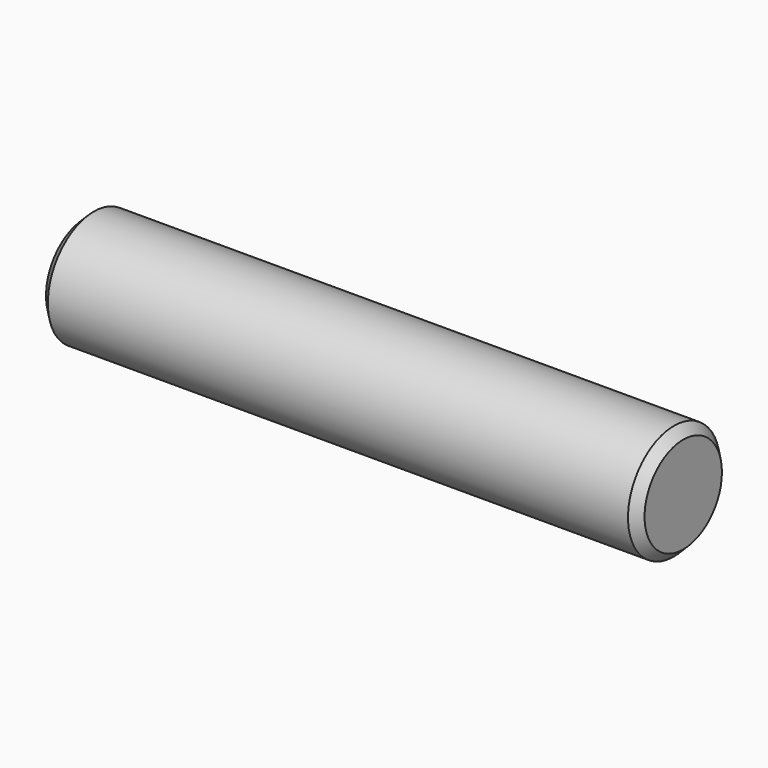
from build123d import *

# Parameters (mm, degrees)
F0_R     = 31.74873
F1_DEPTH = 330.2
F2_SIZE  = 5.08


with BuildPart() as f1:
    # F0 (on Right) → F1 (new body)
    with BuildSketch(Plane.YZ):
        with Locations((-221.234336, 305.681765)):
            Circle(F0_R)
    extrude(amount=F1_DEPTH)

    # F2
    f2_edges = [f1.edges().sort_by_distance(p)[0] for p in [
        (330.2, -252.983066, 305.681765),
        (0, -252.983066, 305.681765),
    ]]
    chamfer(f2_edges, length=F2_SIZE)


solid = f1.part
